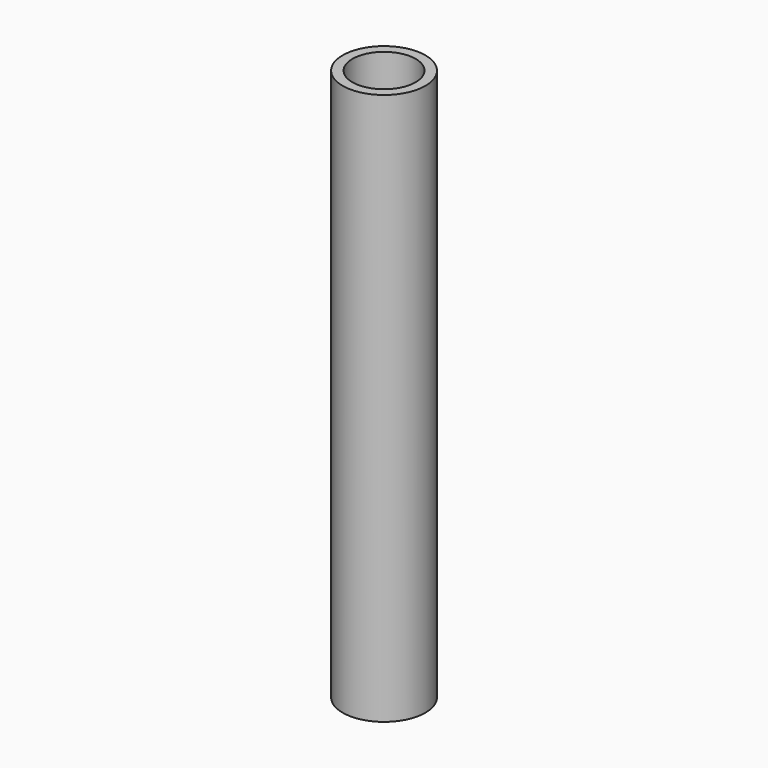
from build123d import *

# Parameters (mm, degrees)
F0_R     = 45.714355
F0_R_2   = 34.949173
F1_DEPTH = 609.6


with BuildPart() as f1:
    # F0 (on Top) → F1 (new body)
    with BuildSketch(Plane.XY):
        Circle(F0_R)
        Circle(F0_R_2, mode=Mode.SUBTRACT)
        Circle(F0_R)
        Circle(F0_R_2, mode=Mode.SUBTRACT)
    extrude(amount=F1_DEPTH)


solid = f1.part
